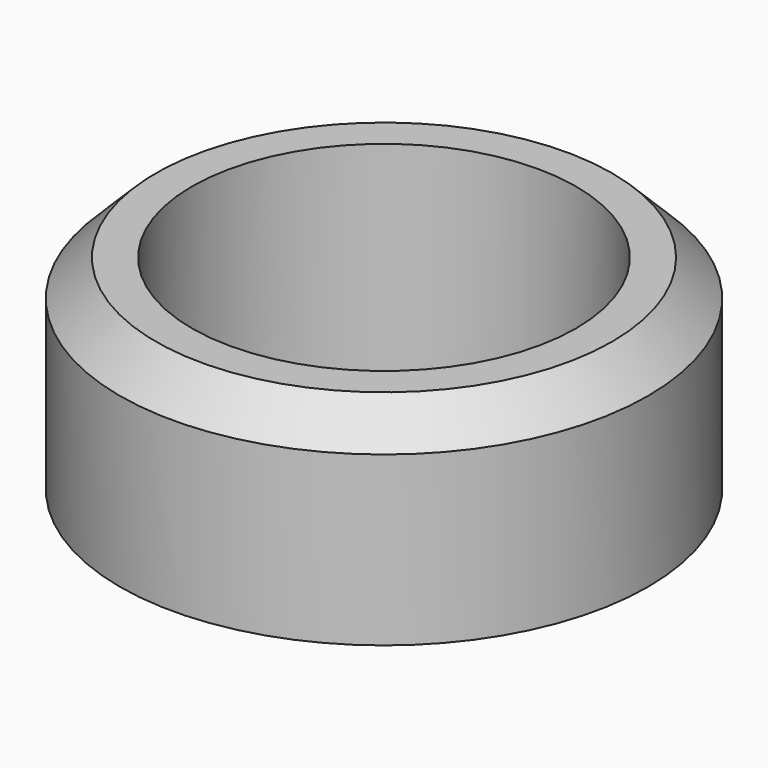
from build123d import *

# Parameters (mm, degrees)
SKETCH_R     = 5.5
SKETCH_R_2   = 4
PAD_DEPTH    = 4.25
CHAMFER_SIZE = 0.75


with BuildPart() as part:
    # Sketch → Pad (new body)
    with BuildSketch(Plane.XY):
        Circle(SKETCH_R)
        Circle(SKETCH_R_2, mode=Mode.SUBTRACT)
    extrude(amount=PAD_DEPTH)

    # Chamfer
    chamfer_edges = [part.edges().sort_by_distance(p)[0] for p in [
        (-5.5, 0, 4.25),
    ]]
    chamfer(chamfer_edges, length=CHAMFER_SIZE)


solid = part.part
